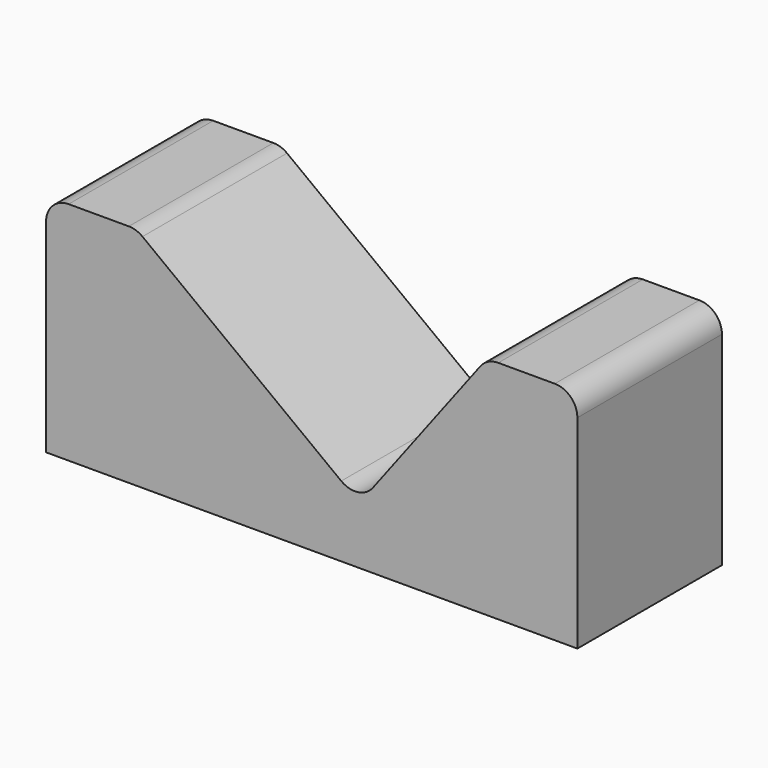
from build123d import *

# Parameters (mm, degrees)
F1_DEPTH = 40
F2_R     = 5
F3_R     = 5


with BuildPart() as f1:
    # F0 (on Front) → F1 (new body)
    with BuildSketch(Plane.XZ):
        Polygon((-49.333352, 37.356967), (-69.333352, 37.356967), (-69.333352, -12.643033), (48.288023, -12.643033), (48.288023, 37.356967), (28.288023, 37.356967), (0, 0), align=None)
    extrude(amount=F1_DEPTH)

    # F2
    f2_edges = [f1.edges().sort_by_distance(p)[0] for p in [
        (0, -20, 0),
    ]]
    fillet(f2_edges, radius=F2_R)

    # F3
    f3_edges = [f1.edges().sort_by_distance(p)[0] for p in [
        (-69.333352, -20, 37.356967),
        (48.288023, -20, 37.356967),
        (-49.333352, -20, 37.356967),
        (28.288023, -20, 37.356967),
    ]]
    fillet(f3_edges, radius=F3_R)


solid = f1.part
